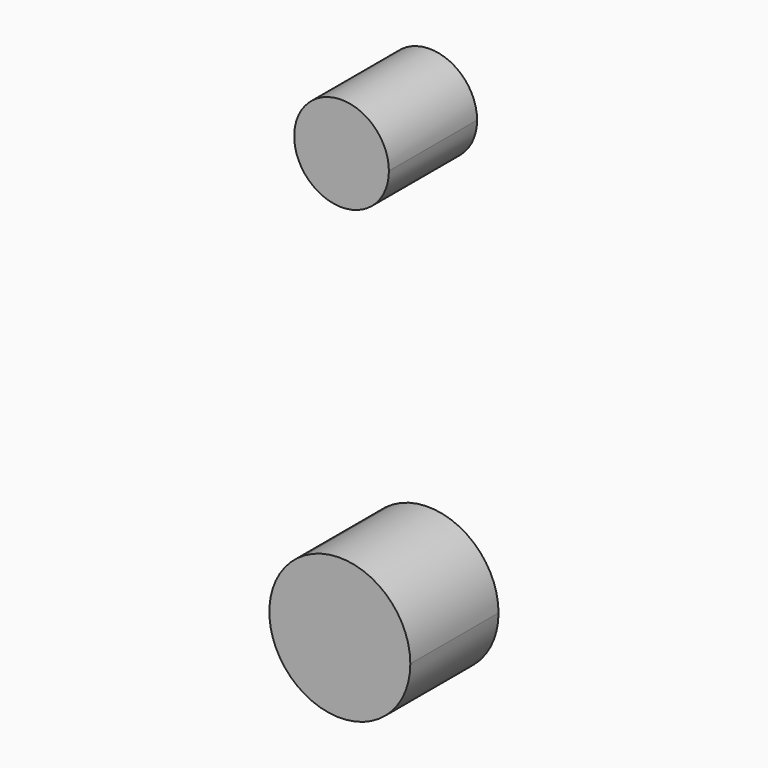
from build123d import *

# Parameters (mm, degrees)
F1_DEPTH = 25.4


with BuildPart() as f1:
    # F0 (on Front) → F1 (new body)
    with BuildSketch(Plane.XZ):
        with BuildLine():
            ThreePointArc((24.353171, -33.850387), (16.236652, -19.787989), (0, -19.781727))
            ThreePointArc((0, -19.781727), (-0.010849, -47.912785), (24.353171, -33.850387))
        make_face()
        with BuildLine():
            ThreePointArc((19.414169, 64.486521), (4.882439, 74.777335), (0, 57.653265))
            ThreePointArc((0, 57.653265), (8.119291, 53.583681), (16.50556, 57.070069))
            ThreePointArc((16.50556, 57.070069), (18.66102, 60.503314), (19.414169, 64.486521))
        make_face()
    extrude(amount=F1_DEPTH)


solid = f1.part
